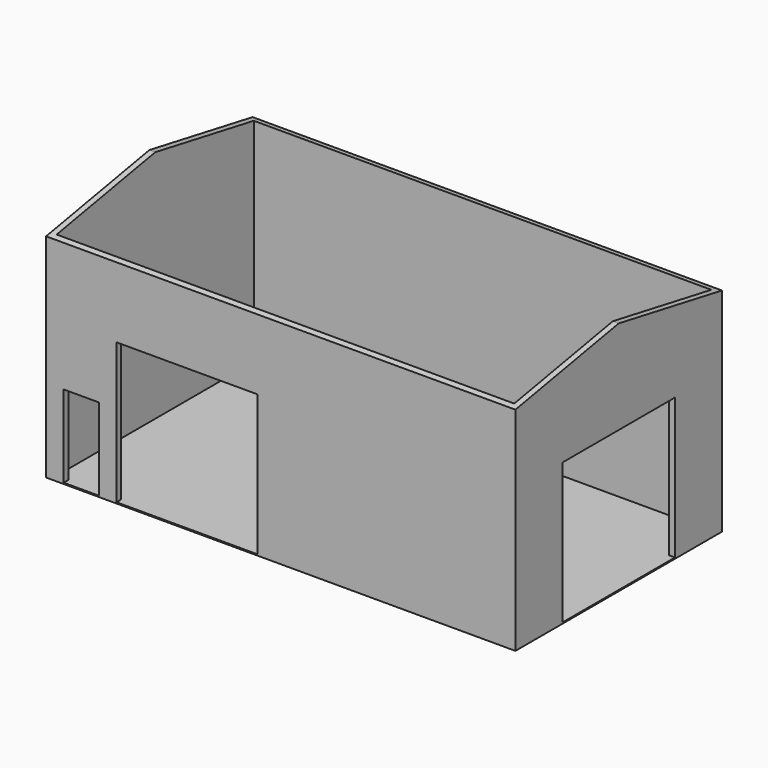
from build123d import *

# Parameters (mm, degrees)
F0_W      = 12192
F0_H      = 6705.6
F1_DEPTH  = 30.48
F2_W      = 11887.2
F2_H      = 152.4
F3_DEPTH  = 6096
F5_DEPTH  = 12192.001
F6_W      = 3657.6
F6_H      = 3657.6
F7_DEPTH  = 152.4
F8_W      = 3657.6
F8_H      = 3657.6
F9_DEPTH  = 152.4
F10_W     = 914.4
F10_H     = 2133.6
F11_DEPTH = 152.4


with BuildPart() as f1:
    # F0 (on Top) → F1 (new body)
    with BuildSketch(Plane.XY):
        with Locations((6096, 3352.8)):
            Rectangle(F0_W, F0_H)
    extrude(amount=F1_DEPTH)

    # F2 (on face) → F3 (join)
    with BuildSketch(Plane.XY.offset(30.48)):
        Polygon((152.4, 6705.6), (0, 6705.6), (0, 0), (152.4, 0), (152.4, 152.4), (152.4, 6553.2), align=None)
        Polygon((12192, 6705.6), (152.4, 6705.6), (152.4, 6553.2), (12039.6, 6553.2), (12192, 6553.2), align=None)
        with Locations((6096, 76.2)):
            Rectangle(F2_W, F2_H)
        Polygon((12192, 6553.2), (12039.6, 6553.2), (12039.6, 152.4), (12039.6, 0), (12192, 0), align=None)
    extrude(amount=F3_DEPTH)

    # F4 (on face) → F5 (cut, through all)
    with BuildSketch(Plane.YZ.offset(12192)):
        Polygon((6705.6, 6126.48), (3352.8, 6126.48), (6705.6, 5516.88), align=None)
        Polygon((3352.8, 6126.48), (0, 6126.48), (0, 5516.88), align=None)
    extrude(amount=-F5_DEPTH, mode=Mode.SUBTRACT)

    # F6 (on face) → F7 (cut)
    with BuildSketch(Plane.YZ.offset(12192)):
        with Locations((3352.8, 1859.28)):
            Rectangle(F6_W, F6_H)
    extrude(amount=-F7_DEPTH, mode=Mode.SUBTRACT)

    # F8 (on face) → F9 (cut)
    with BuildSketch(Plane.XZ):
        with Locations((3657.6, 1859.28)):
            Rectangle(F8_W, F8_H)
    extrude(amount=-F9_DEPTH, mode=Mode.SUBTRACT)

    # F10 (on face) → F11 (cut)
    with BuildSketch(Plane.XZ):
        with Locations((914.4, 1097.28)):
            Rectangle(F10_W, F10_H)
    extrude(amount=-F11_DEPTH, mode=Mode.SUBTRACT)


solid = f1.part
